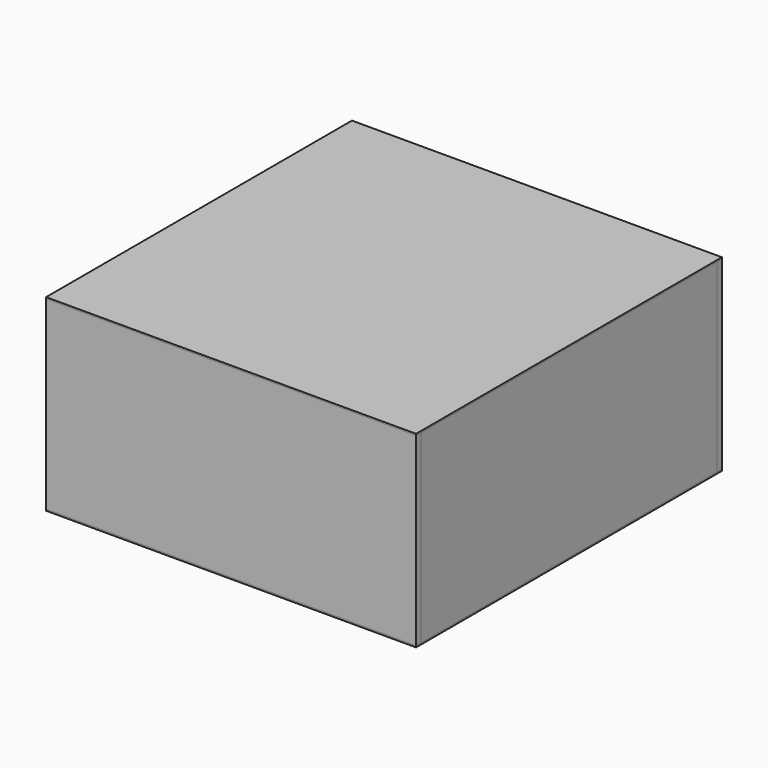
from build123d import *

# Parameters (mm, degrees)
F1_DEPTH = 3000
F0_W     = 100
F0_H     = 6000
F2_DEPTH = 3000
F3_DEPTH = 3000
F4_DEPTH = 3000
F0_W_2   = 5800
F5_DEPTH = 25
F6_W     = 6000
F6_H     = 6200
F6_W_2   = 150
F6_H_2   = 150
F7_DEPTH = 25
F8_DEPTH = 75


with BuildPart() as f1:
    # F0 (on Top) → F1 (new body)
    with BuildSketch(Plane.XY):
        Polygon((-3000, 3100), (-3000, 3000), (-2900, 3000), (2900, 3000), (3000, 3000), (3000, 3100), align=None)
    extrude(amount=F1_DEPTH)


with BuildPart() as f2:
    # F0 (on Top) → F2 (new body, through all)
    with BuildSketch(Plane.XY):
        with Locations((-2950, 0)):
            Rectangle(F0_W, F0_H)
    extrude(amount=F2_DEPTH)


with BuildPart() as f3:
    # F0 (on Top) → F3 (new body, through all)
    with BuildSketch(Plane.XY):
        Polygon((-2900, -3000), (-3000, -3000), (-3000, -3100), (3000, -3100), (3000, -3000), (2900, -3000), align=None)
    extrude(amount=F3_DEPTH)


with BuildPart() as f4:
    # F0 (on Top) → F4 (new body, through all)
    with BuildSketch(Plane.XY):
        with Locations((2950, 0)):
            Rectangle(F0_W, F0_H)
    extrude(amount=F4_DEPTH)


with BuildPart() as f5:
    # F0 (on Top) → F5 (new body)
    with BuildSketch(Plane.XY):
        Polygon((-2900, -3000), (-3000, -3000), (-3000, -3100), (3000, -3100), (3000, -3000), (2900, -3000), align=None)
        with Locations((-2950, 0)):
            Rectangle(F0_W, F0_H)
        Rectangle(F0_W_2, F0_H)
        Polygon((-3000, 3100), (-3000, 3000), (-2900, 3000), (2900, 3000), (3000, 3000), (3000, 3100), align=None)
        with Locations((2950, 0)):
            Rectangle(F0_W, F0_H)
    extrude(amount=-F5_DEPTH)


with BuildPart() as f7:
    # F6 (on face) → F7 (new body)
    with BuildSketch(Plane.XY.offset(3000)):
        Rectangle(F6_W, F6_H)
        Rectangle(F6_W_2, F6_H_2, mode=Mode.SUBTRACT)
        Rectangle(F6_W_2, F6_H_2)
    extrude(amount=F7_DEPTH)


with BuildPart() as f8:
    # F6 (on face) → F8 (new body)
    with BuildSketch(Plane.XY.offset(3000)):
        Rectangle(F6_W_2, F6_H_2)
    extrude(amount=-F8_DEPTH)


solid = Compound([f1.part, f2.part, f3.part, f4.part, f5.part, f7.part, f8.part])
